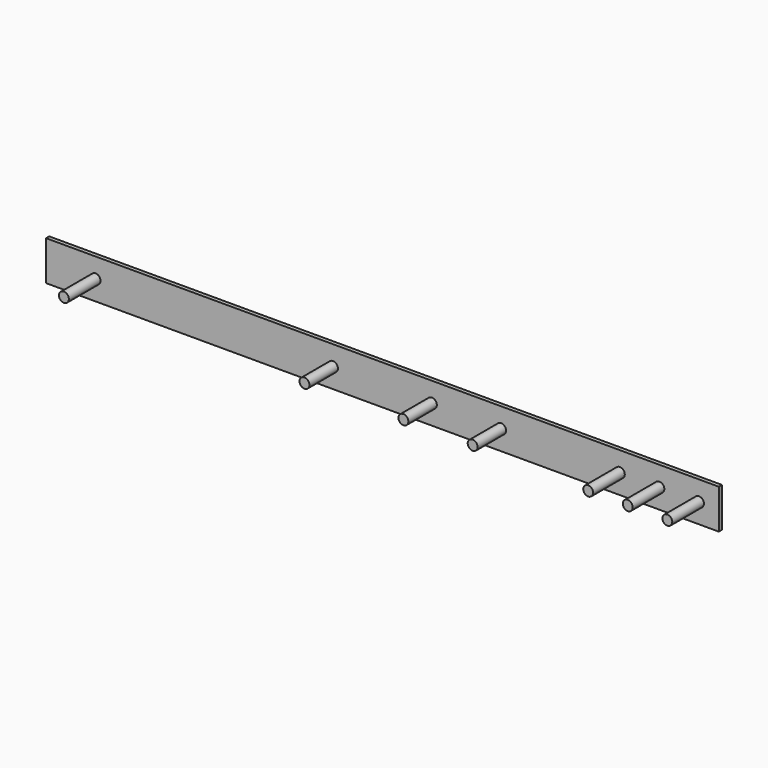
from build123d import *

# Parameters (mm, degrees)
F0_W      = 177.8
F0_H      = 25.4
F1_DEPTH  = 2.54
F2_R      = 3.175
F3_DEPTH  = 25.4
F4_DEPTH  = 25.4
F5_DEPTH  = 127
F6_R      = 3.175
F7_DEPTH  = 25.4
F8_DEPTH  = 127
F9_R      = 3.175
F10_DEPTH = 25.4


with BuildPart() as f1:
    # F0 (on Front) → F1 (new body)
    with BuildSketch(Plane.XZ):
        Rectangle(F0_W, F0_H)
    extrude(amount=F1_DEPTH)

    # F2 (on Front) → F3 (join)
    with BuildSketch(Plane.XZ):
        with Locations((-31.75, 0)):
            Circle(F2_R)
        with Locations((31.75, 0)):
            Circle(F2_R)
    extrude(amount=F3_DEPTH)

    # F2 (on Front) → F4 (join)
    with BuildSketch(Plane.XZ):
        with Locations((-31.75, 0)):
            Circle(F2_R)
        with Locations((31.75, 0)):
            Circle(F2_R)
        with Locations((76.2, 0)):
            Circle(F2_R)
    extrude(amount=F4_DEPTH)

    # F5 (add): a face of the model
    f5_faces = [f1.faces().sort_by_distance(p)[0] for p in [
        (-88.9, -1.27, 0),
    ]]
    extrude(f5_faces, amount=F5_DEPTH)

    # F6 (on face) → F7 (join)
    with BuildSketch(Plane.XZ.offset(2.54)):
        with Locations((-184.15, 0)):
            Circle(F6_R)
    extrude(amount=F7_DEPTH)

    # F8 (add): a face of the model
    f8_faces = [f1.faces().sort_by_distance(p)[0] for p in [
        (88.9, -1.27, 0),
    ]]
    extrude(f8_faces, amount=F8_DEPTH)

    # F9 (on face) → F10 (join)
    with BuildSketch(Plane.XZ.offset(2.54)):
        with Locations((152.4, 0)):
            Circle(F9_R)
        with Locations((177.8, 0)):
            Circle(F9_R)
        with Locations((203.2, 0)):
            Circle(F9_R)
    extrude(amount=F10_DEPTH)


solid = f1.part
